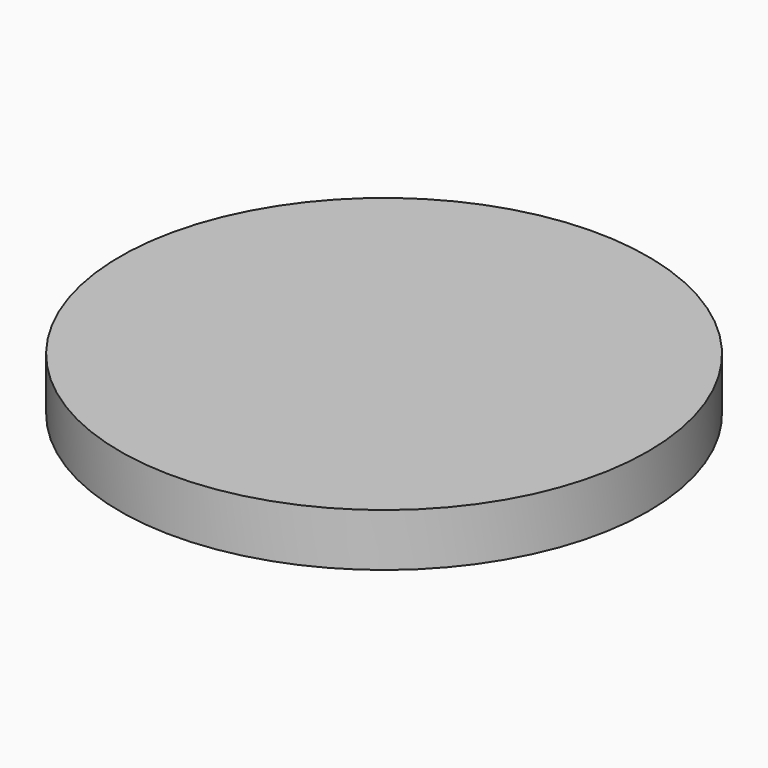
from build123d import *

# Parameters (mm, degrees)
F0_R     = 20
F0_R_2   = 1.6
F1_DEPTH = 4
F2_DEPTH = 1.8


with BuildPart() as f1:
    # F0 (on Top) → F1 (new body)
    with BuildSketch(Plane.XY):
        Circle(F0_R)
        with Locations((-3.5, -2.5)):
            Circle(F0_R_2, mode=Mode.SUBTRACT)
        with Locations((3.5, -2.5)):
            Circle(F0_R_2, mode=Mode.SUBTRACT)
        with Locations((-3.5, 2.5)):
            Circle(F0_R_2, mode=Mode.SUBTRACT)
        with Locations((3.5, 2.5)):
            Circle(F0_R_2, mode=Mode.SUBTRACT)
        with Locations((3.5, 2.5)):
            Circle(F0_R_2)
        with Locations((-3.5, 2.5)):
            Circle(F0_R_2)
        with Locations((3.5, -2.5)):
            Circle(F0_R_2)
        with Locations((-3.5, -2.5)):
            Circle(F0_R_2)
    extrude(amount=F1_DEPTH)

    # F0 (on Top) → F2 (cut)
    with BuildSketch(Plane.XY):
        with Locations((-3.5, 2.5)):
            Circle(F0_R_2)
        with Locations((-3.5, -2.5)):
            Circle(F0_R_2)
        with Locations((3.5, -2.5)):
            Circle(F0_R_2)
        with Locations((3.5, 2.5)):
            Circle(F0_R_2)
    extrude(amount=F2_DEPTH, mode=Mode.SUBTRACT)


solid = f1.part
